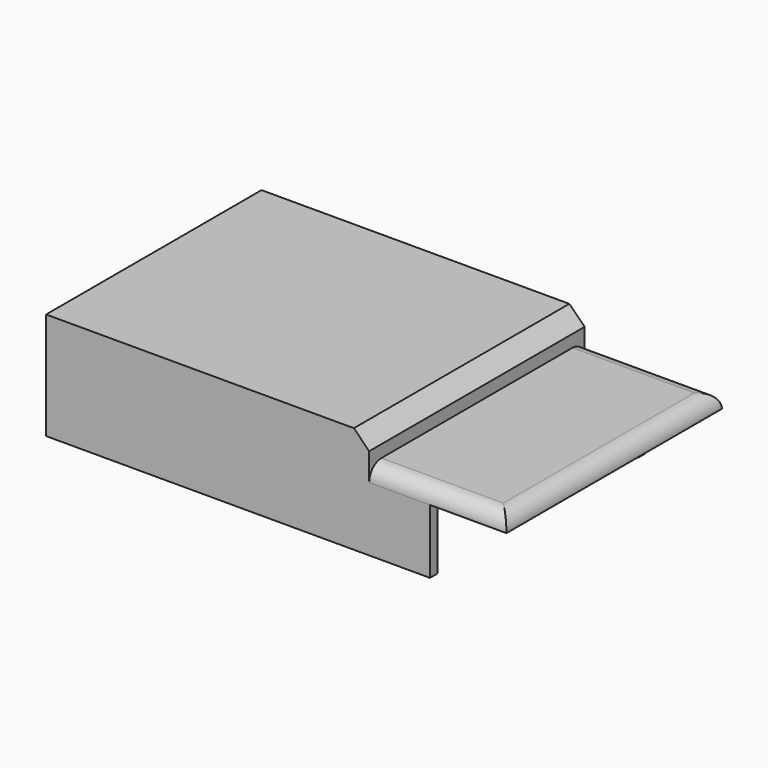
from build123d import *

# Parameters (mm, degrees)
F0_W          = 105.625689
F0_H          = 88.043314
F0_R          = 1.5
F1_DEPTH      = 35
F0_W_2        = 44.878527
F2_DEPTH      = 26
F3_SIZE       = 5
F4_W          = 102.581762
F4_H          = 82.043314
F4_W_2        = 41.922454
F5_DEPTH      = 25
F6_R          = 5
F7_W          = 50
F7_H          = 14
F8_DEPTH      = 3
F9_DEPTH      = 25
F9_DEPTH_BACK = 3
F10_W         = 88.043314
F10_H         = 21
F11_DEPTH     = 25


with BuildPart() as f1:
    # F0 (on Top) → F1 (new body)
    with BuildSketch(Plane.XY):
        with Locations((-22.055275, 0)):
            Rectangle(F0_W, F0_H)
        with Locations((-20, -35.20183)):
            Circle(F0_R, mode=Mode.SUBTRACT)
        with Locations((0, -35.20183)):
            Circle(F0_R, mode=Mode.SUBTRACT)
        with Locations((20, -35.20183)):
            Circle(F0_R, mode=Mode.SUBTRACT)
        with Locations((-20, 35.20183)):
            Circle(F0_R, mode=Mode.SUBTRACT)
        with Locations((0, 35.20183)):
            Circle(F0_R, mode=Mode.SUBTRACT)
        with Locations((20, 35.20183)):
            Circle(F0_R, mode=Mode.SUBTRACT)
        with Locations((-20, 35.20183)):
            Circle(F0_R)
        with Locations((0, 35.20183)):
            Circle(F0_R)
        with Locations((20, 35.20183)):
            Circle(F0_R)
        with Locations((20, -35.20183)):
            Circle(F0_R)
        with Locations((0, -35.20183)):
            Circle(F0_R)
        with Locations((-20, -35.20183)):
            Circle(F0_R)
    extrude(amount=F1_DEPTH)

    # F0 (on Top) → F2 (join)
    with BuildSketch(Plane.XY):
        with Locations((53.196832, 0)):
            Rectangle(F0_W_2, F0_H)
    extrude(amount=F2_DEPTH)

    # F3
    f3_edges = [f1.edges().sort_by_distance(p)[0] for p in [
        (30.757569, 0, 35),
    ]]
    chamfer(f3_edges, length=F3_SIZE)

    # F4 (on Top) → F5 (cut)
    with BuildSketch(Plane.XY):
        with Locations((-20.577239, 0)):
            Rectangle(F4_W, F4_H)
        with Locations((51.674869, 0)):
            Rectangle(F4_W_2, F4_H)
    extrude(amount=F5_DEPTH, mode=Mode.SUBTRACT)

    # F6
    f6_edges = [f1.edges().sort_by_distance(p)[0] for p in [
        (53.196833, -44.021657, 26),
        (75.636096, 0, 26),
        (53.196833, 44.021657, 26),
    ]]
    fillet(f6_edges, radius=F6_R)

    # F7 (on face) → F8 (cut)
    with BuildSketch(Plane(origin=(-74.86812, 0, 0), x_dir=(0, -1, 0), z_dir=(-1, 0, 0))):
        with Locations((-5.428568, 10)):
            Rectangle(F7_W, F7_H)
    extrude(amount=-F8_DEPTH, mode=Mode.SUBTRACT)

    # F0 (on Top) → F9 (join, two sides)
    with BuildSketch(Plane.XY) as f9_sk:
        with Locations((-20, -35.20183)):
            Circle(F0_R)
        with Locations((0, -35.20183)):
            Circle(F0_R)
        with Locations((20, -35.20183)):
            Circle(F0_R)
        with Locations((-20, 35.20183)):
            Circle(F0_R)
        with Locations((20, 35.20183)):
            Circle(F0_R)
        with Locations((0, 35.20183)):
            Circle(F0_R)
    extrude(amount=F9_DEPTH)
    extrude(f9_sk.sketch, amount=-F9_DEPTH_BACK)

    # F10 (on face) → F11 (cut)
    with BuildSketch(Plane.YZ.offset(75.636096)):
        with Locations((0, 10.5)):
            Rectangle(F10_W, F10_H)
    extrude(amount=-F11_DEPTH, mode=Mode.SUBTRACT)


solid = f1.part
